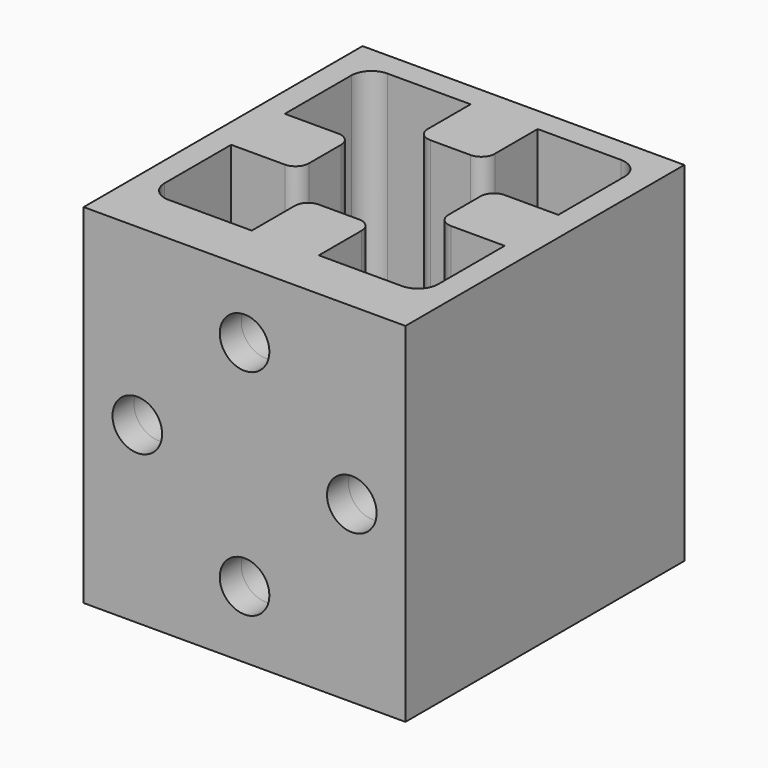
from build123d import *

# Parameters (mm, degrees)
F0_W     = 24
F0_H     = 24
F1_DEPTH = 26
F2_R     = 1.85
F3_DEPTH = 7.5
F5_START = -3.81
F4_R     = 1.85
F5_DEPTH = 3.19
F6_DEPTH = 2


with BuildPart() as f1:
    # F0 (on Top) → F1 (new body)
    with BuildSketch(Plane.XY):
        Rectangle(F0_W, F0_H)
        with BuildLine():
            Line((-10.2, -8.7), (-10.2, -8.6))
            Line((-10.2, -8.6), (-10.2, -2.5))
            Line((-10.2, -2.5), (-6.2, -2.5))
            ThreePointArc((-6.2, -2.5), (-5.4928932188, -2.2071067812), (-5.2, -1.5))
            Line((-5.2, -1.5), (-5.2, 1.5))
            ThreePointArc((-5.2, 1.5), (-5.4928932188, 2.2071067812), (-6.2, 2.5))
            Line((-6.2, 2.5), (-10.2, 2.5))
            Line((-10.2, 2.5), (-10.2, 8.7))
            ThreePointArc((-10.2, 8.7), (-9.7606601718, 9.7606601718), (-8.7, 10.2))
            Line((-8.7, 10.2), (-8.6, 10.2))
            Line((-8.6, 10.2), (-2.5, 10.2))
            Line((-2.5, 10.2), (-2.5, 6.2))
            ThreePointArc((-2.5, 6.2), (-2.2071067812, 5.4928932188), (-1.5, 5.2))
            Line((-1.5, 5.2), (1.5, 5.2))
            ThreePointArc((1.5, 5.2), (2.2071067812, 5.4928932188), (2.5, 6.2))
            Line((2.5, 6.2), (2.5, 10.2))
            Line((2.5, 10.2), (8.7, 10.2))
            ThreePointArc((8.7, 10.2), (9.7606601718, 9.7606601718), (10.2, 8.7))
            Line((10.2, 8.7), (10.2, 8.6))
            Line((10.2, 8.6), (10.2, 2.5))
            Line((10.2, 2.5), (6.2, 2.5))
            ThreePointArc((6.2, 2.5), (5.4928932188, 2.2071067812), (5.2, 1.5))
            Line((5.2, 1.5), (5.2, -1.5))
            ThreePointArc((5.2, -1.5), (5.4928932188, -2.2071067812), (6.2, -2.5))
            Line((6.2, -2.5), (10.2, -2.5))
            Line((10.2, -2.5), (10.2, -8.7))
            ThreePointArc((10.2, -8.7), (9.7606601718, -9.7606601718), (8.7, -10.2))
            Line((8.7, -10.2), (8.6, -10.2))
            Line((8.6, -10.2), (2.5, -10.2))
            Line((2.5, -10.2), (2.5, -6.2))
            ThreePointArc((2.5, -6.2), (2.2071067812, -5.4928932188), (1.5, -5.2))
            Line((1.5, -5.2), (-1.5, -5.2))
            ThreePointArc((-1.5, -5.2), (-2.2071067812, -5.4928932188), (-2.5, -6.2))
            Line((-2.5, -6.2), (-2.5, -10.2))
            Line((-2.5, -10.2), (-8.7, -10.2))
            ThreePointArc((-8.7, -10.2), (-9.7606601718, -9.7606601718), (-10.2, -8.7))
        make_face(mode=Mode.SUBTRACT)
    extrude(amount=F1_DEPTH)

    # F2 (on face) → F3 (cut)
    with BuildSketch(Plane.XZ.offset(12)):
        with Locations((0, 53)):
            Circle(F2_R)
        with Locations((8, 45)):
            Circle(F2_R)
        with Locations((-8, 45)):
            Circle(F2_R)
        with Locations((0, 37)):
            Circle(F2_R)
        with Locations((-8, 29)):
            Circle(F2_R)
        with Locations((0, 21)):
            Circle(F2_R)
        with Locations((8, 29)):
            Circle(F2_R)
        with Locations((8, 13)):
            Circle(F2_R)
        with Locations((-8, 13)):
            Circle(F2_R)
        with Locations((0, 5)):
            Circle(F2_R)
    extrude(amount=-F3_DEPTH, mode=Mode.SUBTRACT)

    # F4 (on face) → F5 (cut)
    with BuildSketch(Plane.XZ.offset(12).offset(F5_START)):
        Polygon((1.3331978443, 18.6901357984), (2.0000989222, 19.8448934496), (2.667, 19.8448934496), (2.667, 22.1545832015), (2.0004010778, 22.1545832015), (1.3338021557, 23.3095153022), (-1.3331978443, 23.3098642016), (-2.0004011691, 22.1545832015), (-2.667, 22.1545832015), (-2.667, 19.8448934496), (-2.0000989222, 19.8448934496), (-1.3338021557, 18.6904846978), align=None)
        with Locations((0, 21)):
            Circle(F4_R, mode=Mode.SUBTRACT)
        Polygon((2.667, 6.1551065504), (2.0000989222, 6.1551065504), (1.3331978443, 7.3098642016), (-1.3338021557, 7.3095153022), (-2.0000989906, 6.15510659), (-2.667, 6.1551065504), (-2.667, 3.8454167985), (-2.0004011691, 3.8454167985), (-1.3331978443, 2.6901357984), (1.3338021557, 2.6904846978), (2.0004010778, 3.8454167985), (2.667, 3.8454167985), align=None)
        with Locations((0, 5)):
            Circle(F4_R, mode=Mode.SUBTRACT)
    extrude(amount=-F5_DEPTH, mode=Mode.SUBTRACT)

    # F6 (add): a face of the model
    f6_faces = [f1.faces().sort_by_distance(p)[0] for p in [
        (0, -12, 13),
    ]]
    extrude(f6_faces, amount=F6_DEPTH)


solid = f1.part
